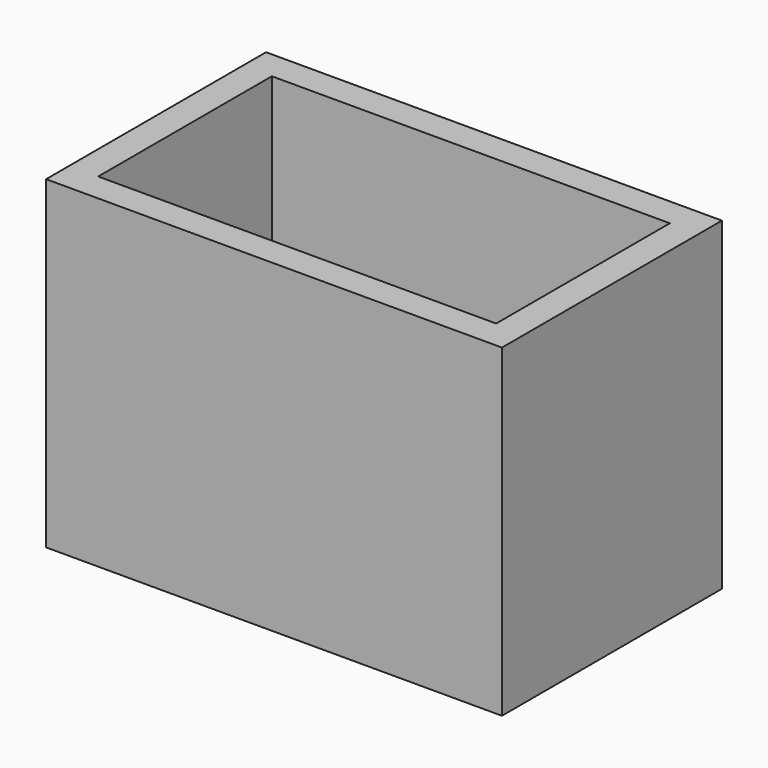
from build123d import *

# Parameters (mm, degrees)
F0_W     = 31.5
F0_H     = 19
F0_W_2   = 27.5
F0_H_2   = 15
F1_DEPTH = 20
F0_R     = 2.5
F2_DEPTH = 2.4


with BuildPart() as f1:
    # F0 (on Top) → F1 (new body)
    with BuildSketch(Plane.XY):
        with Locations((13.75, 7.5)):
            Rectangle(F0_W, F0_H)
        with Locations((13.75, 7.5)):
            Rectangle(F0_W_2, F0_H_2, mode=Mode.SUBTRACT)
    extrude(amount=F1_DEPTH)

    # F0 (on Top) → F2 (join)
    with BuildSketch(Plane.XY):
        with Locations((13.75, 7.5)):
            Rectangle(F0_W, F0_H)
        with Locations((13.75, 7.5)):
            Rectangle(F0_W_2, F0_H_2, mode=Mode.SUBTRACT)
        with Locations((13.75, 7.5)):
            Rectangle(F0_W_2, F0_H_2)
        with Locations((13.75, 7.5)):
            Circle(F0_R, mode=Mode.SUBTRACT)
    extrude(amount=-F2_DEPTH)


solid = f1.part
